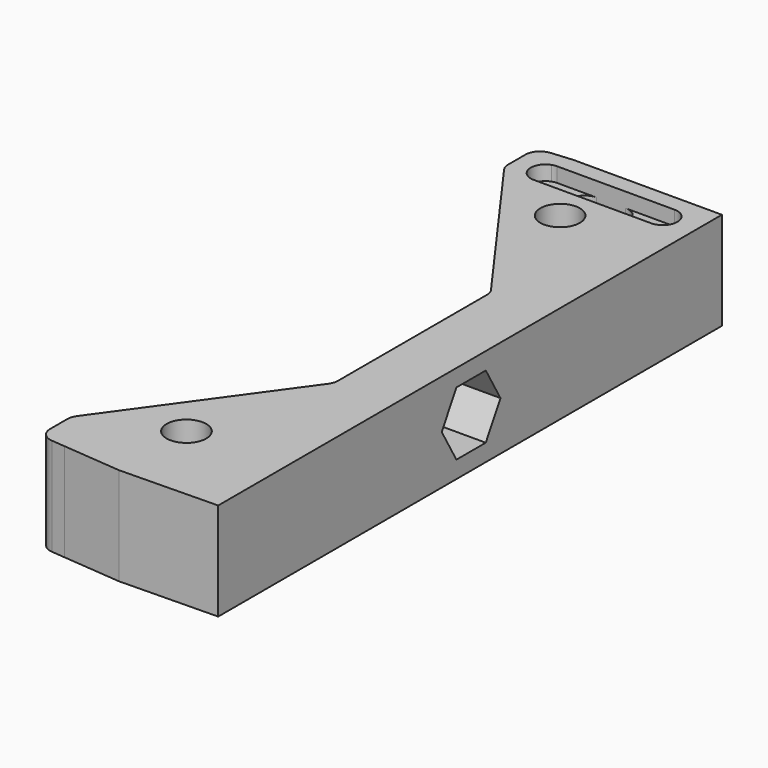
from build123d import *

# Parameters (mm, degrees)
F0_R     = 4.05
F1_DEPTH = 20
F2_DEPTH = 17
F3_R     = 3
F4_R     = 4.05
F5_DEPTH = 219.9
F6_START = 103.2
F6_DEPTH = 43.7
F7_DEPTH = 8


with BuildPart() as f1:
    # F0 (on Top) → F1 (new body)
    with BuildSketch(Plane.XY):
        with BuildLine():
            Line((80, 54.9215728753), (80, 47.75))
            Line((80, 47.75), (100, 20))
            Line((100, 20), (100, 0))
            Line((100, 0), (100, -20))
            Line((100, -20), (80, -47.75))
            Line((80, -47.75), (80, -63.952777299))
            Line((80, -63.952777299), (92, -65))
            Line((92, -65), (112, -64.6363035163))
            Line((112, -64.6363035163), (112, 0))
            Line((112, 0), (112, 64.1046091914))
            Line((112, 64.1046091914), (81.7398235416, 64.1046091914))
            Line((81.7398235416, 64.1046091914), (80, 63.952777299))
            Line((80, 63.952777299), (80, 60.5784271247))
            ThreePointArc((80, 60.5784271247), (80.4926940638, 60.706795679), (81, 60.75))
            Line((81, 60.75), (89, 60.75))
            Line((89, 60.75), (95, 60.75))
            Line((95, 60.75), (105, 60.75))
            ThreePointArc((105, 60.75), (107.1213203436, 59.8713203436), (108, 57.75))
            ThreePointArc((108, 57.75), (107.1213203436, 55.6286796564), (105, 54.75))
            Line((105, 54.75), (95, 54.75))
            Line((95, 54.75), (89, 54.75))
            Line((89, 54.75), (81, 54.75))
            ThreePointArc((81, 54.75), (80.4926940638, 54.793204321), (80, 54.9215728753))
        make_face()
        with Locations((92, -47.75)):
            Circle(F0_R, mode=Mode.SUBTRACT)
        with Locations((92, 47.75)):
            Circle(F0_R, mode=Mode.SUBTRACT)
        Polygon((80, -63.952777299), (80, -47.75), (74.5151937008, -55.3601687402), (74.5151937008, -63.4741261601), align=None)
        with BuildLine():
            Line((74.5151937008, 55.3601687402), (80, 47.75))
            Line((80, 47.75), (80, 54.9215728753))
            ThreePointArc((80, 54.9215728753), (78, 57.75), (80, 60.5784271247))
            Line((80, 60.5784271247), (80, 63.952777299))
            Line((80, 63.952777299), (74.5151937008, 63.4741261601))
            Line((74.5151937008, 63.4741261601), (74.5151937008, 55.3601687402))
        make_face()
    extrude(amount=F1_DEPTH)

    # F0 (on Top) → F2 (join)
    with BuildSketch(Plane.XY):
        with BuildLine():
            ThreePointArc((105, 60.75), (102, 57.75), (105, 54.75))
            ThreePointArc((105, 54.75), (107.1213203436, 55.6286796564), (108, 57.75))
            ThreePointArc((108, 57.75), (107.1213203436, 59.8713203436), (105, 60.75))
        make_face()
        with BuildLine():
            Line((80, 60.5784271247), (80, 54.9215728753))
            ThreePointArc((80, 54.9215728753), (80.4926940638, 54.793204321), (81, 54.75))
            ThreePointArc((81, 54.75), (83.1213203436, 55.6286796564), (84, 57.75))
            ThreePointArc((84, 57.75), (83.1213203436, 59.8713203436), (81, 60.75))
            ThreePointArc((81, 60.75), (80.4926940638, 60.706795679), (80, 60.5784271247))
        make_face()
        with BuildLine():
            ThreePointArc((80, 60.5784271247), (78, 57.75), (80, 54.9215728753))
            Line((80, 54.9215728753), (80, 60.5784271247))
        make_face()
        with BuildLine():
            ThreePointArc((84, 57.75), (83.1213203436, 55.6286796564), (81, 54.75))
            Line((81, 54.75), (89, 54.75))
            ThreePointArc((89, 54.75), (86, 57.75), (89, 60.75))
            Line((89, 60.75), (81, 60.75))
            ThreePointArc((81, 60.75), (83.1213203436, 59.8713203436), (84, 57.75))
        make_face()
        with BuildLine():
            ThreePointArc((98, 57.75), (97.1213203436, 55.6286796564), (95, 54.75))
            Line((95, 54.75), (105, 54.75))
            ThreePointArc((105, 54.75), (102, 57.75), (105, 60.75))
            Line((105, 60.75), (95, 60.75))
            ThreePointArc((95, 60.75), (97.1213203436, 59.8713203436), (98, 57.75))
        make_face()
    extrude(amount=F2_DEPTH)

    # F3
    f3_edges = [f1.edges().sort_by_distance(p)[0] for p in [
        (74.515194, -55.360169, 10),
        (74.515194, -63.474126, 10),
        (100, -20, 10),
        (100, 20, 10),
        (74.515194, 55.360169, 10),
        (74.515194, 63.474126, 10),
    ]]
    fillet(f3_edges, radius=F3_R)

    # F4 (on Right) → F5 (cut)
    with BuildSketch(Plane.YZ):
        with Locations((0, 10)):
            Circle(F4_R)
    extrude(amount=F5_DEPTH, mode=Mode.SUBTRACT)

    # F4 (on Right) → F6 (cut)
    with BuildSketch(Plane.YZ.offset(F6_START)):
        Polygon((-3.7527767497, 3.5), (3.7527767497, 3.5), (7.5055534995, 10), (3.7527767497, 16.5), (-3.7527767497, 16.5), (-7.5055534995, 10), align=None)
        with Locations((0, 10)):
            Circle(F4_R, mode=Mode.SUBTRACT)
    extrude(amount=F6_DEPTH, mode=Mode.SUBTRACT)

    # F0 (on Top) → F7 (join)
    with BuildSketch(Plane.XY):
        with BuildLine():
            ThreePointArc((89, 60.75), (86, 57.75), (89, 54.75))
            ThreePointArc((89, 54.75), (91.1213203436, 55.6286796564), (92, 57.75))
            ThreePointArc((92, 57.75), (91.1213203436, 59.8713203436), (89, 60.75))
        make_face()
        with BuildLine():
            Line((95, 60.75), (89, 60.75))
            ThreePointArc((89, 60.75), (91.1213203436, 59.8713203436), (92, 57.75))
            ThreePointArc((92, 57.75), (92.8786796564, 59.8713203436), (95, 60.75))
        make_face()
        with BuildLine():
            ThreePointArc((92, 57.75), (92.8786796564, 55.6286796564), (95, 54.75))
            ThreePointArc((95, 54.75), (97.1213203436, 55.6286796564), (98, 57.75))
            ThreePointArc((98, 57.75), (97.1213203436, 59.8713203436), (95, 60.75))
            ThreePointArc((95, 60.75), (92.8786796564, 59.8713203436), (92, 57.75))
        make_face()
        with BuildLine():
            ThreePointArc((92, 57.75), (91.1213203436, 55.6286796564), (89, 54.75))
            Line((89, 54.75), (95, 54.75))
            ThreePointArc((95, 54.75), (92.8786796564, 55.6286796564), (92, 57.75))
        make_face()
    extrude(amount=F7_DEPTH)


solid = f1.part
